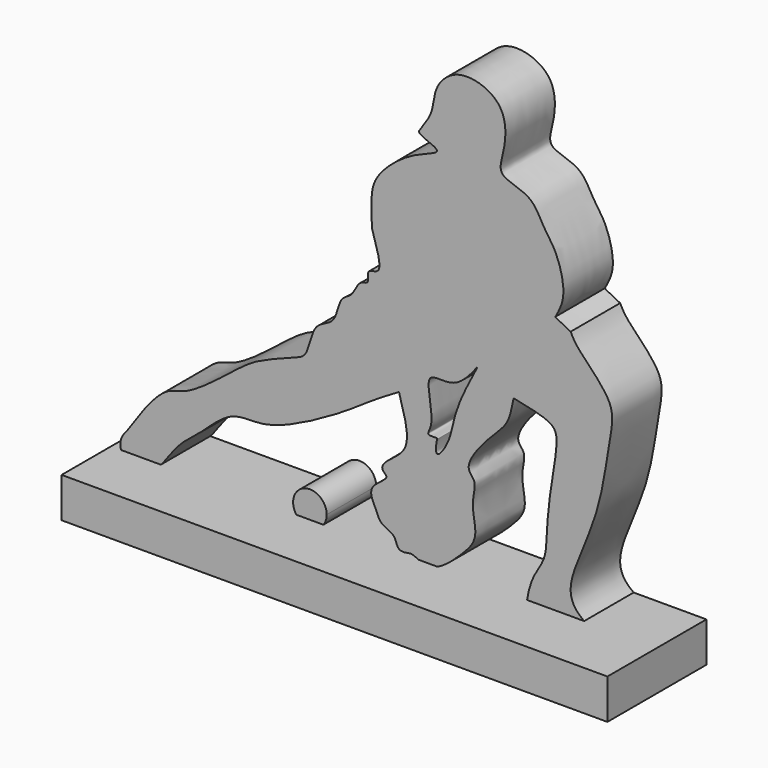
from build123d import *

# Parameters (mm, degrees)
F1_DEPTH = 12.7
F2_W     = 112.0455674827
F2_H     = 8.2061514258
F3_DEPTH = 12.7


with BuildPart() as f1:
    # F0 (on Front) → F1 (new body)
    with BuildSketch(Plane.XZ):
        with BuildLine():
            Line((-14.4143629315, -37.5589355826), (-19.9979577718, -37.5589355826))
            ThreePointArc((-19.9979577718, -37.5589355826), (-17.2061603516, -38.9818400145), (-14.4143629315, -37.5589355826))
        make_face()
        with BuildLine():
            ThreePointArc((-13.75589706, -35.5315767229), (-18.2719653584, -32.2500562721), (-19.9979577718, -37.5589355826))
            Line((-19.9979577718, -37.5589355826), (-14.4143629315, -37.5589355826))
            ThreePointArc((-14.4143629315, -37.5589355826), (-13.9246399009, -36.5973817297), (-13.75589706, -35.5315767229))
        make_face()
    extrude(amount=-F1_DEPTH)


with BuildPart() as f1b:
    # F0 (on Front) → F1, piece 2 (new body)
    with BuildSketch(Plane.XZ):
        with BuildLine():
            add(Edge.make_bspline(
                [(-54.5923225582, -33.4723778069), (-53.1083554271, -31.2825276965), (-50.4084137498, -27.298296876), (-46.394044258, -23.3047653557), (-42.404039375, -23.1203156628), (-34.9773363215, -17.5361554585), (-30.5462357494, -13.8914205888), (-26.6809112044, -11.6089501617), (-20.0629551545, -9.2345492309), (-17.5079137584, -8.0861788807), (-16.6965034453, -1.3590677462), (-11.7578924438, -0.8824930819), (-11.2676492944, 4.9010918706), (-8.3476677712, 5.4489456304), (-7.2894885812, 9.0839995181), (-4.7914799177, 8.7359306843), (-5.845966834, 11.9687941786), (-1.3299466328, 10.9005539093), (-4.6200038793, 19.2336884509), (-4.5025608653, 19.4600416371), (-4.4850069098, 19.4938741624)],
                knots=[0, 0, 0, 0, 0.0768358548, 0.1397957693, 0.1936151883, 0.2771139962, 0.3441871768, 0.403426921, 0.475910898, 0.5210271176, 0.5872430065, 0.642834895, 0.7030522874, 0.7472677607, 0.7971136436, 0.8321812273, 0.871425536, 0.9124700672, 0.9869170886, 1, 1, 1, 1], degree=3))
            add(Edge.make_bspline(
                [(-55.9864642433, -37.5589355826), (-56.108998451, -37.082881253), (-56.2238651807, -35.4203129421), (-55.2648827471, -34.2753624206), (-54.5923225582, -33.4723778069)],
                knots=[0.7965763622, 0.7965763622, 0.7965763622, 0.7965763622, 0.8573335283, 1, 1, 1, 1], degree=3))
            Line((-55.9864642433, -37.5589355826), (-47.7814999802, -37.5589355826))
            add(Edge.make_bspline(
                [(-40.058452636, -29.384303838), (-41.7458846761, -30.7204497942), (-44.8880560435, -33.2084904777), (-46.7593232749, -36.465776263), (-47.7814999802, -37.5589355826)],
                knots=[0, 0, 0, 0, 0.205312583, 0.3823130677, 0.3823130677, 0.3823130677, 0.3823130677], degree=3))
            add(Edge.make_bspline(
                [(1.0792933172, -8.5500255227), (-0.5731751842, -9.5135686779), (-4.2358816859, -11.6492679522), (-11.0645596679, -16.5499059252), (-22.6550226765, -22.7527161387), (-28.5826496474, -23.7784884437), (-34.145376735, -23.226452454), (-39.518263199, -29.1275656261), (-40.058452636, -29.384303838)],
                knots=[0, 0, 0, 0, 0.1435714105, 0.3182269061, 0.5323920293, 0.6751747097, 0.8160322825, 0.9784576987, 0.9784576987, 0.9784576987, 0.9784576987], degree=3))
            add(Edge.make_bspline(
                [(1.0792933172, -8.5500255227), (2.103498719, -11.9514275677), (3.8129308933, -17.6284783654), (0.1085885984, -20.7105345467), (-2.1530523946, -22.339961238), (-2.5894365363, -23.880881235), (-0.499639519, -24.7954149784), (-4.7542412203, -27.0114701103), (-4.6727353897, -29.4494739025), (-3.5546465577, -31.2233526842), (-2.8283554773, -33.8689572087), (0.4578661422, -34.4409706999), (0.6136984869, -37.4294704734), (3.0023798619, -37.0630017673), (3.737167035, -36.9022490048), (4.6666486482, -37.365082246), (5.1462723601, -37.5589355826)],
                knots=[0, 0, 0, 0, 0.0727663791, 0.1214494568, 0.1615415381, 0.1880415956, 0.2144621387, 0.2604119033, 0.2960088192, 0.330748, 0.3689061963, 0.4095485903, 0.4458150442, 0.4785016018, 0.5029874946, 0.5222914246, 0.5222914246, 0.5222914246, 0.5222914246], degree=3))
            Line((5.1462723601, -37.5589355826), (8.9646007298, -37.5589355826))
            add(Edge.make_bspline(
                [(8.9646007298, -37.5589355826), (10.7226331618, -36.7621029505), (14.4563358766, -33.2787386585), (17.6056140466, -29.6877925416), (15.5806036541, -23.910865349), (17.3166970412, -19.5345229467), (13.9649945175, -17.5868236896), (19.8482525939, -10.1971845029), (23.9145812176, -7.1121214361), (24.4695786682, -2.193682178), (24.6530832733, -2.0544960982), (24.6835127473, -2.0314157009)],
                knots=[0.5642080924, 0.5642080924, 0.5642080924, 0.5642080924, 0.6164746939, 0.6705276156, 0.7276571166, 0.7765409837, 0.8139695245, 0.8822192637, 0.9414072334, 0.9902839111, 1, 1, 1, 1], degree=3))
            add(Edge.make_bspline(
                [(24.6835127473, -2.0314157009), (27.3075211456, -2.5615142665), (31.4420138354, -3.3967587901), (33.6614401175, -5.283054938), (33.2831416781, -10.2041369009), (31.2448574669, -20.8592519496), (31.6230338526, -29.0931107825), (28.5714983989, -32.3664680987), (27.5924699267, -36.1567605238), (27.3778924705, -37.5589355826)],
                knots=[0, 0, 0, 0, 0.059309491, 0.0934504086, 0.1404877608, 0.2157470968, 0.2787599554, 0.3295528839, 0.3627810589, 0.3627810589, 0.3627810589, 0.3627810589], degree=3))
            Line((27.3778924705, -37.5589355826), (39.0552940352, -37.5589355826))
            add(Edge.make_bspline(
                [(39.0552940352, -37.5589355826), (37.2896816031, -36.2802527991), (34.5672421995, -32.4219413518), (42.4911816169, -18.1613555548), (43.9729469379, -3.7836126963), (45.9288573295, 3.7503275456), (37.8424577825, 10.7790491953), (36.7304283751, 12.9982678692), (36.3206341863, 13.8160726056)],
                knots=[0.603090294, 0.603090294, 0.603090294, 0.603090294, 0.6560305846, 0.743668156, 0.8302841698, 0.8896696356, 0.9593421344, 1, 1, 1, 1], degree=3))
            add(Edge.make_bspline(
                [(36.3206341863, 13.8160726056), (34.8368620335, 14.5219264811), (33.3530898807, 15.2277803567), (33.196143806, 15.4899070039)],
                knots=[0, 0, 0, 0, 0.8493071936, 0.8493071936, 0.8493071936, 0.8493071936], degree=3))
            add(Edge.make_bspline(
                [(5.1412005761, 39.8896292045), (6.2322032275, 41.4051575617), (8.3231155149, 44.3139194515), (8.1061219246, 49.0637523329), (13.2582003089, 54.4332632511), (23.4579651981, 51.0544517918), (22.9368238563, 42.2034835805), (20.8861146445, 36.9591309711), (28.4177680977, 36.1313587524), (30.5118482127, 30.950615127), (33.5515491536, 27.487300767), (35.6015488461, 19.9089632145), (33.9402782151, 16.8569831209), (33.196143806, 15.4899070039)],
                knots=[0.000220147, 0.000220147, 0.000220147, 0.000220147, 0.0870180673, 0.1668026204, 0.2612431478, 0.3715817877, 0.4781805179, 0.5559743939, 0.6467710387, 0.7327763018, 0.8149624505, 0.9171159684, 1, 1, 1, 1], degree=3))
            add(Edge.make_bspline(
                [(-4.4850069098, 19.4938741624), (-4.5857459861, 21.6431427506), (-4.7705206214, 25.5853103229), (-3.3704379368, 29.8026652103), (3.319531325, 35.6079633589), (11.206610678, 37.5359109615), (5.6857531896, 39.0302989621), (5.211351958, 39.7145616865), (5.1412005761, 39.8896292045)],
                knots=[0, 0, 0, 0, 0.1930903442, 0.3541644341, 0.596012983, 0.7726982076, 0.9229012599, 0.9755165958, 0.9755165958, 0.9755165958, 0.9755165958], degree=3))
        make_face()
        with BuildLine():
            add(Edge.make_bspline(
                [(17.1362832189, 1.1372504523), (17.2833237199, 1.1479160932), (12.0733044336, -7.9116866558), (12.0412734025, -13.7069061181), (8.3304541729, -18.73471858), (8.7671009583, -14.7858146458), (9.124530016, -14.2222148206), (6.2084126105, -14.6425024136), (8.8599870742, -11.9365611691), (5.3281073582, -1.7855056508), (13.0142986738, -5.1098802918), (17.0140294539, 1.1283827271), (17.1362832189, 1.1372504523)],
                knots=[0, 0, 0, 0, 0.1478028692, 0.2865051239, 0.3779293495, 0.4542303446, 0.4853801258, 0.549404931, 0.6245618709, 0.7639065135, 0.8771123799, 1, 1, 1, 1], degree=3))
        make_face(mode=Mode.SUBTRACT)
        with BuildLine():
            Line((-47.7814999802, -37.5589355826), (-55.9864642433, -37.5589355826))
            add(Edge.make_bspline(
                [(-47.7814999802, -37.5589355826), (-47.835413975, -37.6165935057), (-48.8132629301, -38.6332387758), (-51.0121148376, -39.8218900416), (-54.77961131, -40.0697875866), (-55.8052461859, -38.2629809458), (-55.9864642433, -37.5589355826)],
                knots=[0.3823130677, 0.3823130677, 0.3823130677, 0.3823130677, 0.3916488344, 0.5502870831, 0.7067214898, 0.7965763622, 0.7965763622, 0.7965763622, 0.7965763622], degree=3))
        make_face()
        with BuildLine():
            add(Edge.make_bspline(
                [(27.3778924705, -37.5589355826), (27.2043856102, -38.6927312582), (27.0575626044, -41.2840942791), (28.6018028826, -43.5380907762), (43.0309374773, -44.8020069615), (45.4215260084, -40.8375811108), (40.95487112, -38.9339953456), (39.0567790783, -37.560011073), (39.0552940352, -37.5589355826)],
                knots=[0.3627810589, 0.3627810589, 0.3627810589, 0.3627810589, 0.3896492882, 0.4278202855, 0.5107772281, 0.5461977877, 0.6030457663, 0.603090294, 0.603090294, 0.603090294, 0.603090294], degree=3))
            Line((39.0552940352, -37.5589355826), (27.3778924705, -37.5589355826))
        make_face()
    extrude(amount=-F1_DEPTH)


with BuildPart() as f3:
    # F2 (on Front) → F3 (new body, symmetric)
    with BuildSketch(Plane.XZ):
        with Locations((-1.9967835397, -41.6890308261)):
            Rectangle(F2_W, F2_H)
    extrude(amount=F3_DEPTH, both=True)


solid = Compound([f1.part, f1b.part, f3.part])
